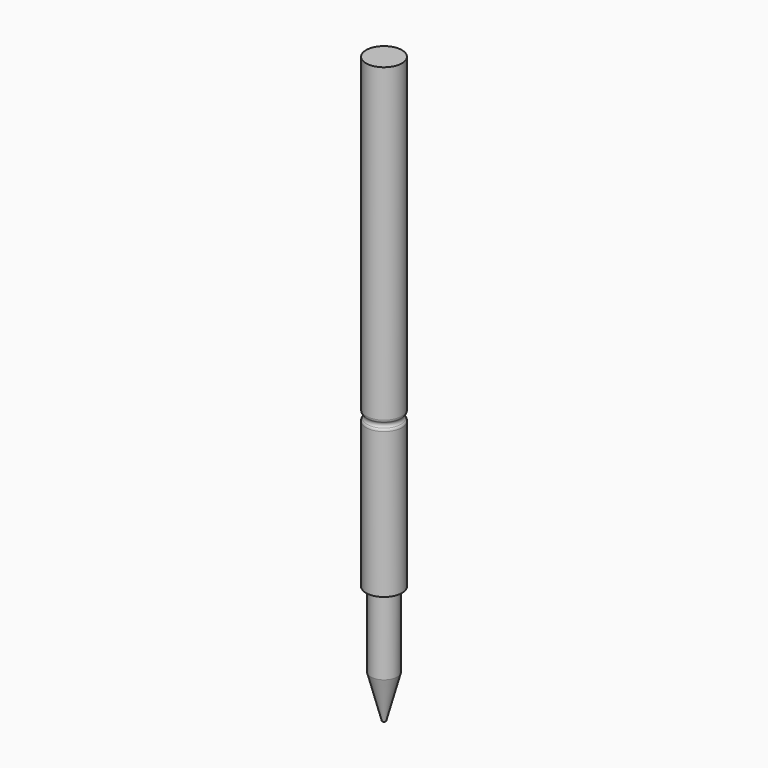
from build123d import *

# Parameters (mm, degrees)
SKETCH037_R      = 0.5
PAD003_DEPTH     = 13
SKETCH038_R      = 0.37
PAD004_DEPTH     = 3.3
CHAMFER004_ANGLE = 15
CHAMFER004_SIZE  = 1.2


with BuildPart() as part:
    # Sketch037 → Pad003 (new body)
    with BuildSketch(Plane.XY):
        Circle(SKETCH037_R)
    extrude(amount=PAD003_DEPTH)

    # Sketch048 → Groove (revolve, cut)
    with BuildSketch(Plane.YZ):
        with BuildLine():
            ThreePointArc((-0.5, 4.341421), (-0.492388, 4.303153), (-0.470711, 4.270711))
            ThreePointArc((-0.470711, 4.129289), (-0.441421, 4.2), (-0.470711, 4.270711))
            ThreePointArc((-0.470711, 4.129289), (-0.492388, 4.096847), (-0.5, 4.058579))
            Line((-0.5, 4.341421), (-0.5, 4.058579))
        make_face()
    revolve(axis=Axis((0, 0, 0), (0, 0, 1)), mode=Mode.SUBTRACT)

    # Sketch038 → Pad004 (join)
    with BuildSketch(Plane.XY):
        Circle(SKETCH038_R)
    extrude(amount=-PAD004_DEPTH)

    # Chamfer004
    chamfer004_edges = [part.edges().sort_by_distance(p)[0] for p in [
        (-0.37, 0, -3.3),
    ]]
    chamfer004_side = part.faces().sort_by_distance((-0.37, 0, -1.65))[0]
    chamfer(chamfer004_edges, length=CHAMFER004_SIZE, angle=CHAMFER004_ANGLE, reference=chamfer004_side)


with BuildPart() as part_1:
    # Body002 placement: moved
    add(part.part.moved(Location((72, -1, 8))))


with BuildPart() as part_2:
    # Clone010 placement: moved
    add(part_1.part.moved(Location((-72, 1, -8))))


with BuildPart() as part_3:
    # Body017 placement: moved
    add(part_2.part.moved(Location((72.77, 1.45, 8))))


solid = part_3.part
